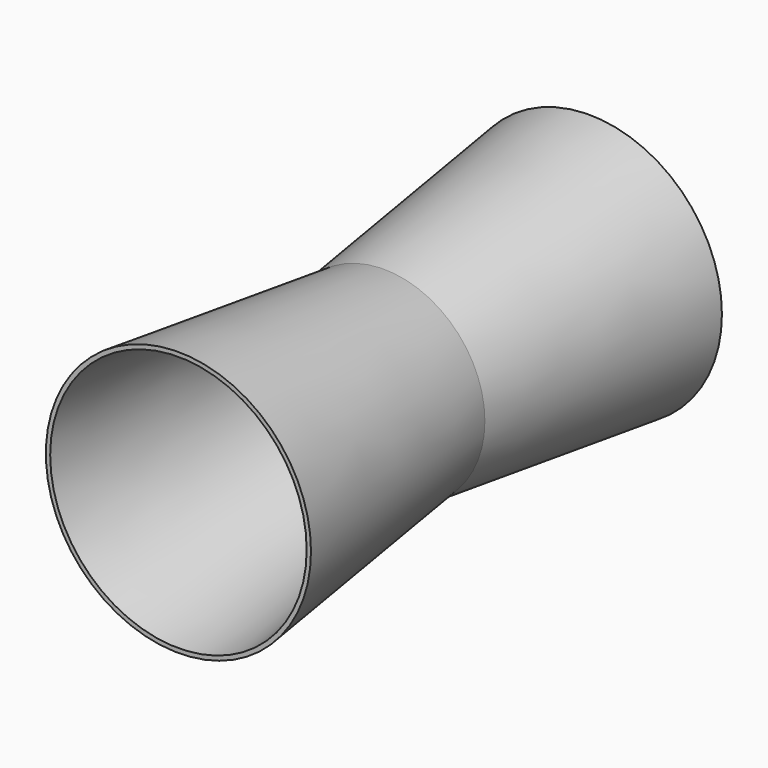
from build123d import *

# Parameters (mm, degrees)
F0_R     = 60.0125189193
F1_DEPTH = 152.5684595108
F1_TAPER = -7
F2_T     = -2.54


with BuildPart() as f1:
    # F0 (on Front) → F1 (new body, symmetric)
    with BuildSketch(Plane.XZ):
        Circle(F0_R)
    extrude(amount=F1_DEPTH, both=True, taper=F1_TAPER)

    # F2
    f2_openings = [f1.faces().sort_by_distance(p)[0] for p in [
        (0, 152.56846, 0),
        (0, -152.56846, 0),
    ]]
    offset(amount=F2_T, openings=f2_openings, kind=Kind.INTERSECTION)


solid = f1.part
